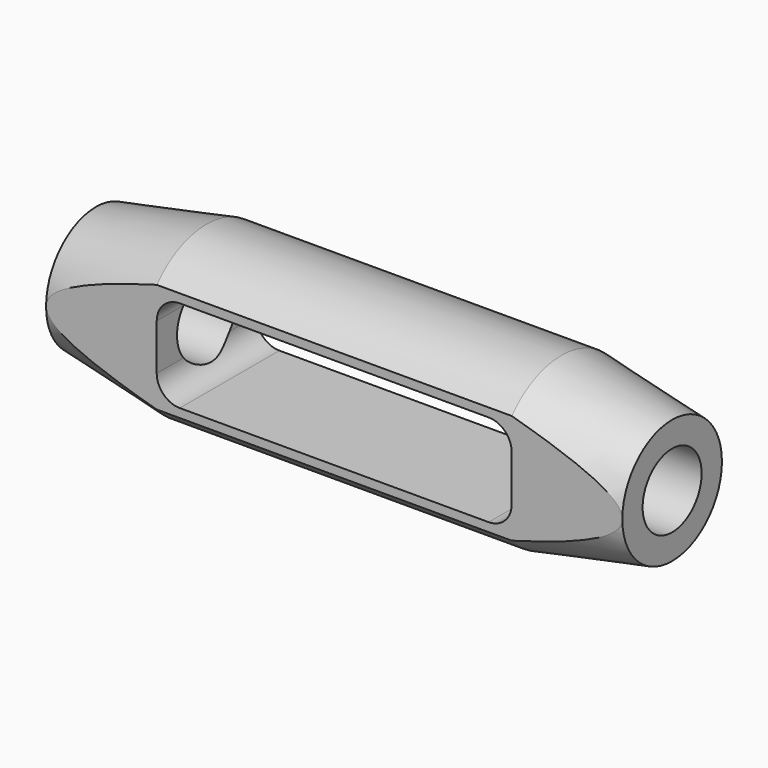
from build123d import *

# Parameters (mm, degrees)
SKETCH022_R      = 8
EXTRUDE011_DEPTH = 150
EXTRUDE010_DEPTH = 30
SKETCH020_W      = 15
SKETCH020_H      = 79.05159
SKETCH020_H_2    = 80
EXTRUDE009_DEPTH = 150


with BuildPart() as extrude011:
    # Sketch022 → Extrude011 (new body, symmetric)
    with BuildSketch(Plane.YZ):
        Circle(SKETCH022_R)
    extrude(amount=EXTRUDE011_DEPTH, both=True)


with BuildPart() as extrude010:
    # Sketch021 → Extrude010 (new body, symmetric)
    with BuildSketch(Plane.XZ):
        with BuildLine():
            Line((38.5, 5), (38.5, -5))
            ThreePointArc((33.5, -10), (37.035534, -8.535534), (38.5, -5))
            Line((33.5, -10), (-33.5, -10))
            ThreePointArc((-38.5, -5), (-37.035534, -8.535534), (-33.5, -10))
            Line((-38.5, -5), (-38.5, 5))
            ThreePointArc((-33.5, 10), (-37.035534, 8.535534), (-38.5, 5))
            Line((-33.5, 10), (33.5, 10))
            ThreePointArc((38.5, 5), (37.035534, 8.535534), (33.5, 10))
        make_face()
    extrude(amount=EXTRUDE010_DEPTH, both=True)


with BuildPart() as extrude009:
    # Sketch020 → Extrude009 (new body, symmetric)
    with BuildSketch(Plane.YZ):
        with Locations((-21, 0.159191)):
            Rectangle(SKETCH020_W, SKETCH020_H)
        with Locations((21, -0.315014)):
            Rectangle(SKETCH020_W, SKETCH020_H_2)
    extrude(amount=EXTRUDE009_DEPTH, both=True)


with BuildPart() as obj1:
    # Sketch019 → Revolve001 (revolve)
    with BuildSketch(Plane.XZ):
        Polygon((-62.5, 0), (-62.5, 13.5), (-38.5, 18), (38.5, 18), (62.5, 13.5), (62.5, 0), align=None)
    revolve(axis=Axis((-62.5, 0, 0), (-1, 0, 0)))

    # Cut009: cut Extrude009
    add(extrude009.part, mode=Mode.SUBTRACT)

    # Cut010: cut Extrude010
    add(extrude010.part, mode=Mode.SUBTRACT)

    # Cut011: cut Extrude011
    add(extrude011.part, mode=Mode.SUBTRACT)


with BuildPart() as obj1_1:
    # Cut011 placement: moved
    add(obj1.part.moved(Location((-440, 0, 0))))


solid = obj1_1.part
